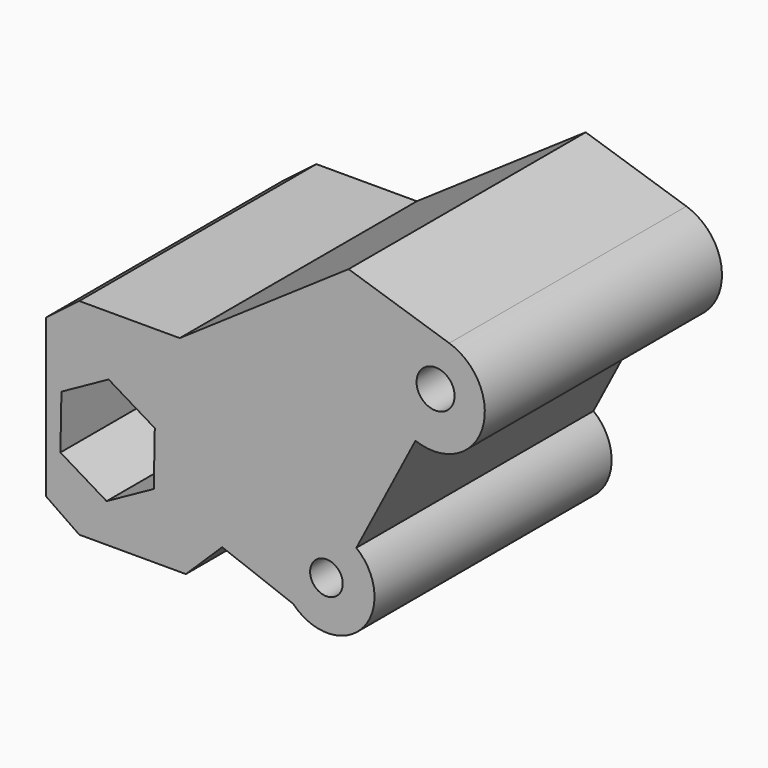
from build123d import *

# Parameters (mm, degrees)
F2_DEPTH = 38.1
F1_R     = 4.191664
F1_R_2   = 4.888278
F3_DEPTH = 38.1


with BuildPart() as f2:
    # F0 (on Front) → F2 (new body, symmetric)
    with BuildSketch(Plane.XZ):
        with BuildLine():
            Line((-53.521972, 29.483171), (-62.049322, 22.979138))
            Line((-62.049322, 22.979138), (-62.049322, -17.520668))
            Line((-62.049322, -17.520668), (-53.521972, -23.408599))
            Line((-53.521972, -23.408599), (-26.112633, -23.408599))
            Line((-26.112633, -23.408599), (-16.773155, -14.272154))
            Line((-16.773155, -14.272154), (1.499737, -21.175247))
            ThreePointArc((1.499737, -21.175247), (19.255094, -20.912232), (17.705545, -3.222666))
            Line((17.705545, -3.222666), (32.90997, 25.973593))
            ThreePointArc((32.90997, 25.973593), (50.002283, 33.973494), (41.596282, 50.869786))
            Line((41.596282, 50.869786), (15.718478, 59.210562))
            Line((15.718478, 59.210562), (-27.696349, 29.483171))
            Line((-27.696349, 29.483171), (-53.521972, 29.483171))
        make_face()
    extrude(amount=F2_DEPTH, both=True)

    # F1 (on face) → F3 (cut, symmetric)
    with BuildSketch(Plane.XZ):
        with Locations((10.020046, -12.490342)):
            Circle(F1_R)
        with Locations((38.078971, 39.35767)):
            Circle(F1_R_2)
        Polygon((-46.49493, -13.530695), (-34.363216, -6.82854), (-34.101594, 7.02891), (-45.971688, 14.184206), (-58.103403, 7.482052), (-58.365024, -6.375399), align=None)
    extrude(amount=F3_DEPTH, both=True, mode=Mode.SUBTRACT)


solid = f2.part
